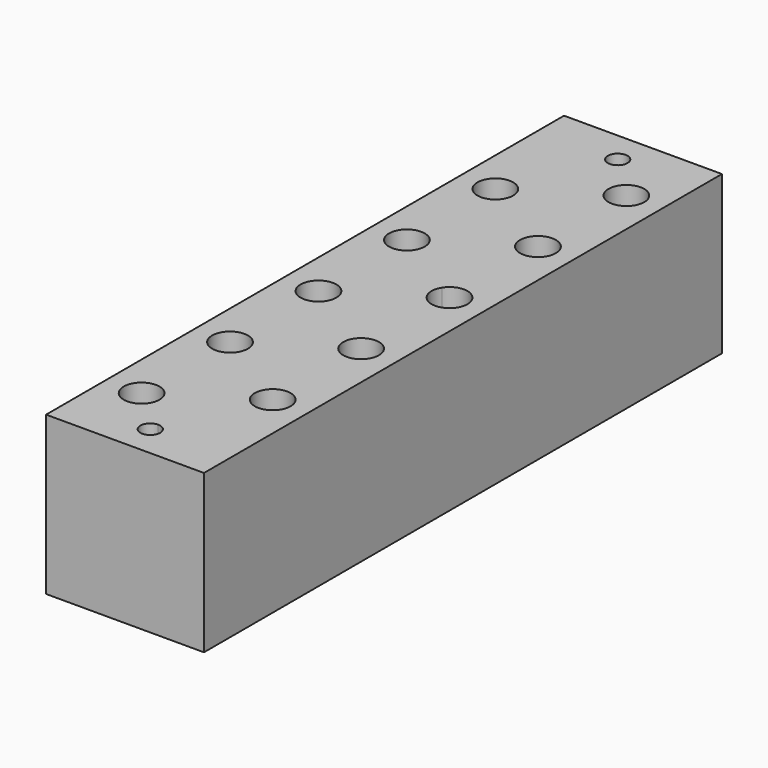
from build123d import *

# Parameters (mm, degrees)
F0_R     = 2.8769537575
F1_DEPTH = 25.4


with BuildPart() as f1:
    # F0 (on Top) → F1 (new body)
    with BuildSketch(Plane.XY):
        Polygon((0, 52.07), (0, 0), (25.4, 0), (25.4, 104.14), (0, 104.14), align=None)
        with Locations((5.715, 12.065)):
            Circle(F0_R, mode=Mode.SUBTRACT)
        with BuildLine():
            ThreePointArc((14.2875, 5.08), (11.5774679849, 3.9574679849), (12.7, 6.6675))
            ThreePointArc((12.7, 6.6675), (13.8225320151, 6.2025320151), (14.2875, 5.08))
        make_face(mode=Mode.SUBTRACT)
        with Locations((5.715, 29.845)):
            Circle(F0_R, mode=Mode.SUBTRACT)
        with BuildLine():
            ThreePointArc((8.5919537575, 47.625), (2.9527786647, 46.820639249), (8.1421750872, 49.1695659646))
            ThreePointArc((8.1421750872, 49.1695659646), (8.4772213353, 48.429360751), (8.5919537575, 47.625))
        make_face(mode=Mode.SUBTRACT)
        with Locations((19.685, 20.955)):
            Circle(F0_R, mode=Mode.SUBTRACT)
        with Locations((19.685, 38.735)):
            Circle(F0_R, mode=Mode.SUBTRACT)
        with BuildLine():
            ThreePointArc((8.5919537575, 65.405), (8.4772213353, 64.600639249), (8.1421750872, 63.8604340354))
            ThreePointArc((8.1421750872, 63.8604340354), (2.9527786647, 66.209360751), (8.5919537575, 65.405))
        make_face(mode=Mode.SUBTRACT)
        with Locations((5.715, 83.185)):
            Circle(F0_R, mode=Mode.SUBTRACT)
        with BuildLine():
            ThreePointArc((14.2875, 99.06), (13.8225320151, 97.9374679849), (12.7, 97.4725))
            ThreePointArc((12.7, 97.4725), (11.5774679849, 100.1825320151), (14.2875, 99.06))
        make_face(mode=Mode.SUBTRACT)
        with BuildLine():
            Line((17.2578249128, 54.9704340354), (12.7, 52.07))
            Line((12.7, 52.07), (12.7, 60.96))
            Line((12.7, 60.96), (17.2578249128, 58.0595659646))
            ThreePointArc((17.2578249128, 58.0595659646), (20.489360751, 59.2772213353), (22.5619537575, 56.515))
            ThreePointArc((22.5619537575, 56.515), (20.489360751, 53.7527786647), (17.2578249128, 54.9704340354))
        make_face(mode=Mode.SUBTRACT)
        with Locations((19.685, 74.295)):
            Circle(F0_R, mode=Mode.SUBTRACT)
        with Locations((19.685, 92.075)):
            Circle(F0_R, mode=Mode.SUBTRACT)
        with BuildLine():
            Line((12.7, 60.96), (12.7, 52.07))
            Line((12.7, 52.07), (17.2578249128, 54.9704340354))
            ThreePointArc((17.2578249128, 54.9704340354), (16.8080462425, 56.515), (17.2578249128, 58.0595659646))
            Line((17.2578249128, 58.0595659646), (12.7, 60.96))
        make_face()
    extrude(amount=F1_DEPTH)


solid = f1.part
